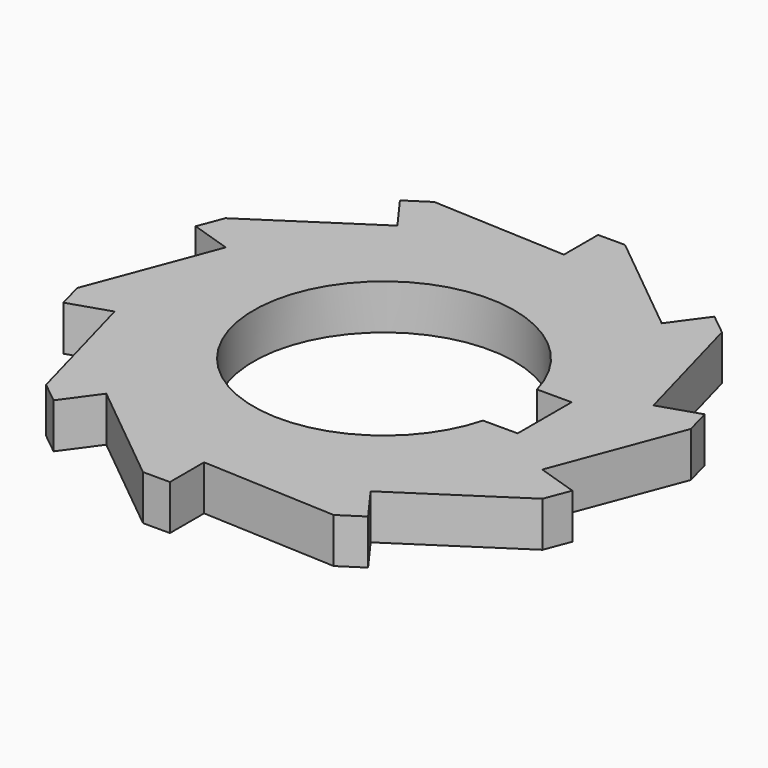
from build123d import *

# Parameters (mm, degrees)
PAD_DEPTH = 10


with BuildPart() as part:
    # Sketch → Pad (new body)
    with BuildSketch(Plane.XY):
        Polygon((-1e-05, 59.5), (5.99999, 59.5), (29.389263, 40.45085), (34.973223, 48.136511), (39.643333, 44.369541), (47.552826, 15.45085), (56.587863, 18.386511), (58.151892, 12.593946), (47.552826, -15.45085), (56.587863, -18.386511), (54.448404, -23.992108), (29.389263, -40.45085), (34.973223, -48.136511), (29.947477, -51.413992), (0, -50), (0, -59.5), (-6, -59.5), (-29.389263, -40.45085), (-34.973223, -48.136511), (-39.643333, -44.369541), (-47.552826, -15.45085), (-56.587863, -18.386511), (-58.151892, -12.593946), (-47.552826, 15.45085), (-56.587863, 18.386511), (-54.448404, 23.992108), (-29.389263, 40.45085), (-34.973223, 48.136511), (-29.947477, 51.413992), (-1e-05, 50), align=None)
        with BuildLine():
            ThreePointArc((28.01339, 7.5), (-29, 0), (28.01339, -7.5))
            Line((35.721142, -7.5), (28.01339, -7.5))
            Line((35.721142, 7.5), (35.721142, -7.5))
            Line((28.01339, 7.5), (35.721142, 7.5))
        make_face(mode=Mode.SUBTRACT)
    extrude(amount=PAD_DEPTH)


solid = part.part
